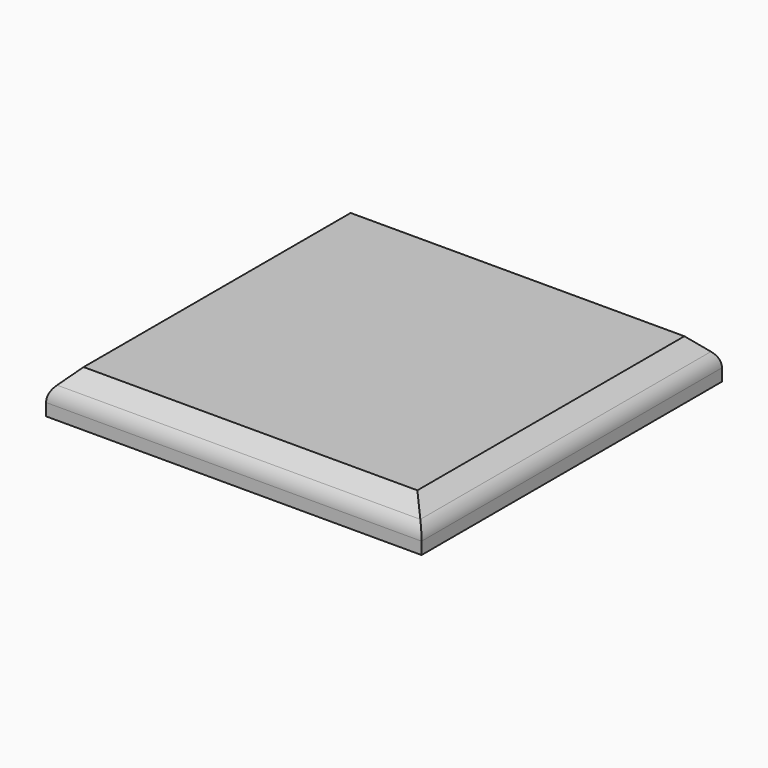
from build123d import *

# Parameters (mm, degrees)
SKETCH_W        = 18
SKETCH_H        = 18
PAD_DEPTH       = 2
CHAMFER_SIZE    = 1
FILLET_R        = 1
COPYSKETCH002_W = 1.2
COPYSKETCH002_H = 3
PAD001_DEPTH    = 4.5
CHAMFER001_SIZE = 0.2


with BuildPart() as part:
    # Sketch → Pad (new body)
    with BuildSketch(Plane.XY):
        Rectangle(SKETCH_W, SKETCH_H)
    extrude(amount=PAD_DEPTH)

    # Chamfer
    chamfer_edges = [part.edges().sort_by_distance(p)[0] for p in [
        (-9, 0, 2),
        (0, 9, 2),
        (9, 0, 2),
        (0, -9, 2),
    ]]
    chamfer(chamfer_edges, length=CHAMFER_SIZE)

    # Fillet
    fillet_edges = [part.edges().sort_by_distance(p)[0] for p in [
        (0, -9, 1),
        (9, 0, 1),
        (-9, 0, 1),
        (0, 9, 1),
    ]]
    fillet(fillet_edges, radius=FILLET_R)

    # CopySketch002 → Pad001 (join)
    with BuildSketch(Plane(origin=(0, 0, 0), x_dir=(1, 0, 0), z_dir=(0, 0, -1))):
        with Locations((-2.85, 0)):
            Rectangle(COPYSKETCH002_W, COPYSKETCH002_H)
        with Locations((2.85, 0)):
            Rectangle(COPYSKETCH002_W, COPYSKETCH002_H)
    extrude(amount=PAD001_DEPTH)

    # Chamfer001
    chamfer001_edges = [part.edges().sort_by_distance(p)[0] for p in [
        (-2.85, 1.5, -4.5),
        (-3.45, 0, -4.5),
        (-2.85, -1.5, -4.5),
        (-2.25, 0, -4.5),
        (-3.45, 1.5, -2.25),
        (-2.25, 1.5, -2.25),
        (-3.45, -1.5, -2.25),
        (-2.25, -1.5, -2.25),
        (2.85, -1.5, -4.5),
        (2.25, 0, -4.5),
        (2.85, 1.5, -4.5),
        (3.45, 0, -4.5),
        (3.45, -1.5, -2.25),
        (2.25, -1.5, -2.25),
        (2.25, 1.5, -2.25),
        (3.45, 1.5, -2.25),
    ]]
    chamfer(chamfer001_edges, length=CHAMFER001_SIZE)


solid = part.part
